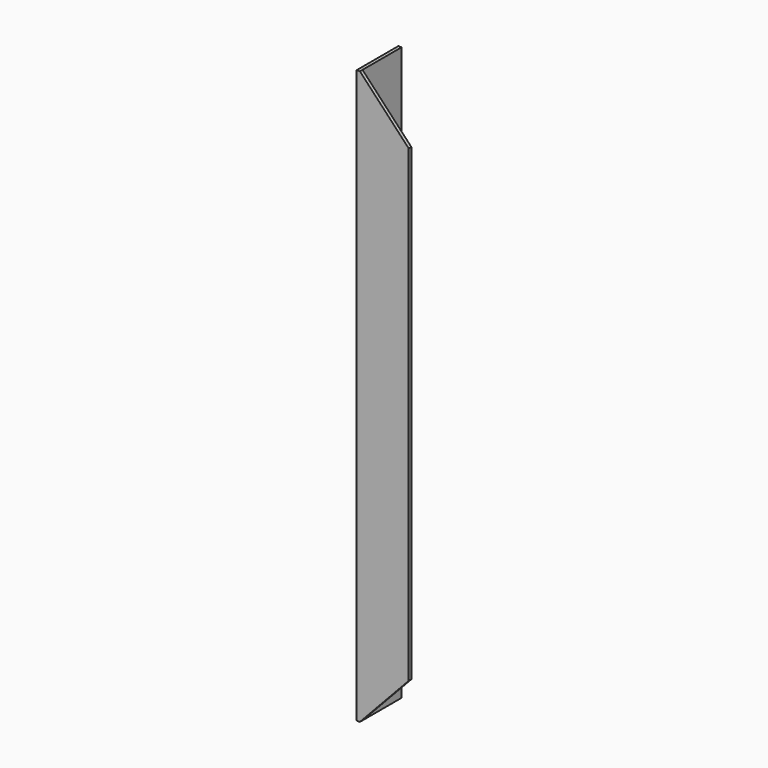
from build123d import *

# Parameters (mm, degrees)
F1_DEPTH      = 533.4
F1_DEPTH_BACK = 25.4
F3_DEPTH      = 3.176


with BuildPart() as f1:
    # F0 (on Top) → F1 (new body, two sides)
    with BuildSketch(Plane.XY) as f1_sk:
        Polygon((0, 50.8), (-3.175, 50.8), (-3.175, 0), (47.625, 0), (47.625, 3.175), (0, 3.175), align=None)
    extrude(amount=F1_DEPTH)
    extrude(f1_sk.sketch, amount=-F1_DEPTH_BACK)

    # F2 (on face) → F3 (cut, through all)
    with BuildSketch(Plane(origin=(0, 3.175, 0), x_dir=(-1, 0, 0), z_dir=(0, 1, 0))):
        Polygon((-47.625, 533.4), (-47.625, 482.6), (0, 533.4), align=None)
        Polygon((0, -25.4), (-47.625, 25.4), (-47.625, -25.4), align=None)
    extrude(amount=-F3_DEPTH, mode=Mode.SUBTRACT)


solid = f1.part
